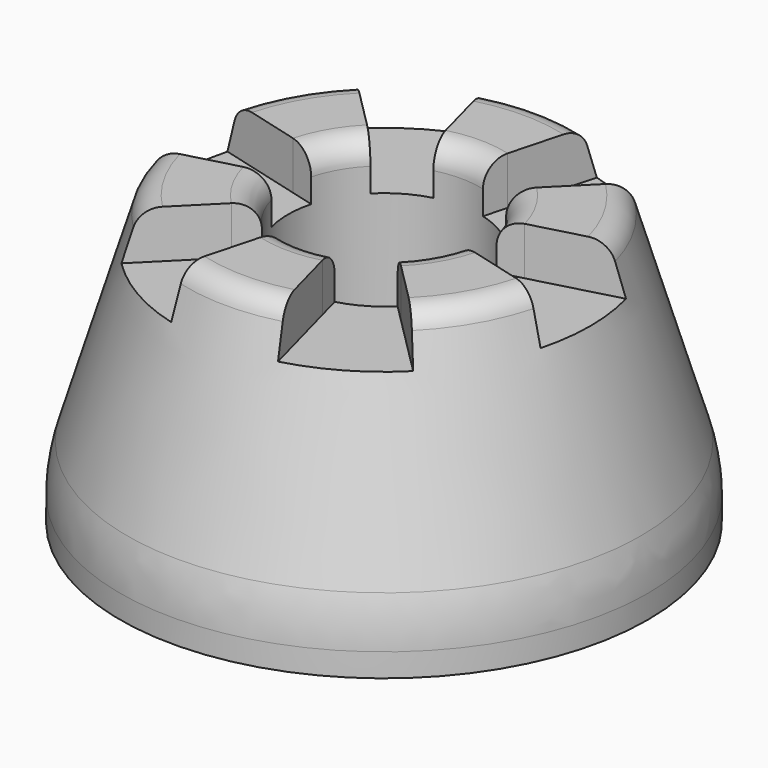
from build123d import *

# Parameters (mm, degrees)
SKETCH_R           = 11
PAD_DEPTH          = 2
SKETCH001_R        = 11
SKETCH002_R        = 8
FILLET_R           = 7
SKETCH003_R        = 1.75
POCKET_DEPTH       = 12.001
SKETCH004_R        = 4
POCKET001_DEPTH    = 9
FILLET001_R        = 1
FILLET002_R        = 1
POCKET002_DEPTH    = 2
POLARPATTERN_COUNT = 6


with BuildPart() as part:
    # Sketch → Pad (new body)
    with BuildSketch(Plane.XY):
        Circle(SKETCH_R)
    extrude(amount=PAD_DEPTH)

    # Sketch001 (on Face3 of Pad) → AdditiveLoft section 0
    with BuildSketch(Plane.XY.offset(2)):
        Circle(SKETCH001_R)
    # Sketch002 (on DatumPlane) → AdditiveLoft section 1
    with BuildSketch(Plane.XY.offset(12)):
        Circle(SKETCH002_R)
    loft()

    # Fillet
    fillet_edges = [part.edges().sort_by_distance(p)[0] for p in [
        (-11, 0, 2),
    ]]
    fillet(fillet_edges, radius=FILLET_R)

    # Sketch003 (on Face5 of Fillet) → Pocket (cut, through all)
    with BuildSketch(Plane.XY.offset(12)):
        Circle(SKETCH003_R)
    extrude(amount=-POCKET_DEPTH, mode=Mode.SUBTRACT)

    # Sketch004 (on Face6 of Pocket) → Pocket001 (cut)
    with BuildSketch(Plane.XY.offset(12)):
        Circle(SKETCH004_R)
    extrude(amount=-POCKET001_DEPTH, mode=Mode.SUBTRACT)

    # Fillet001
    fillet001_edges = [part.edges().sort_by_distance(p)[0] for p in [
        (-8, 0, 12),
    ]]
    fillet(fillet001_edges, radius=FILLET001_R)

    # Fillet002
    fillet002_edges = [part.edges().sort_by_distance(p)[0] for p in [
        (-4, 0, 12),
    ]]
    fillet(fillet002_edges, radius=FILLET002_R)

    # Sketch005 (on Face1 of Fillet002) → Pocket002 (cut)
    with BuildSketch(Plane.XY.offset(12)):
        with BuildLine():
            Line((-9.659258, 2.58819), (-4.829629, 1.294095))
            Line((-4.829629, 1.294095), (-1.931852, 0.517638))
            ThreePointArc((-1.931852, 0.517638), (-2, 0), (-1.931852, -0.517638))
            Line((-4.829629, -1.294095), (-1.931852, -0.517638))
            Line((-9.659258, -2.58819), (-4.829629, -1.294095))
            ThreePointArc((-9.659258, 2.58819), (-10, 0), (-9.659258, -2.58819))
        make_face()
    pocket002 = extrude(amount=-POCKET002_DEPTH, mode=Mode.SUBTRACT)

    # PolarPattern: Pocket002 ×6 about axis
    polarpattern_axis = Axis((0, 0, 12), (0, 0, 1))
    for i in range(1, POLARPATTERN_COUNT):
        add(pocket002.rotate(polarpattern_axis, i * 360 / POLARPATTERN_COUNT), mode=Mode.SUBTRACT)


solid = part.part
